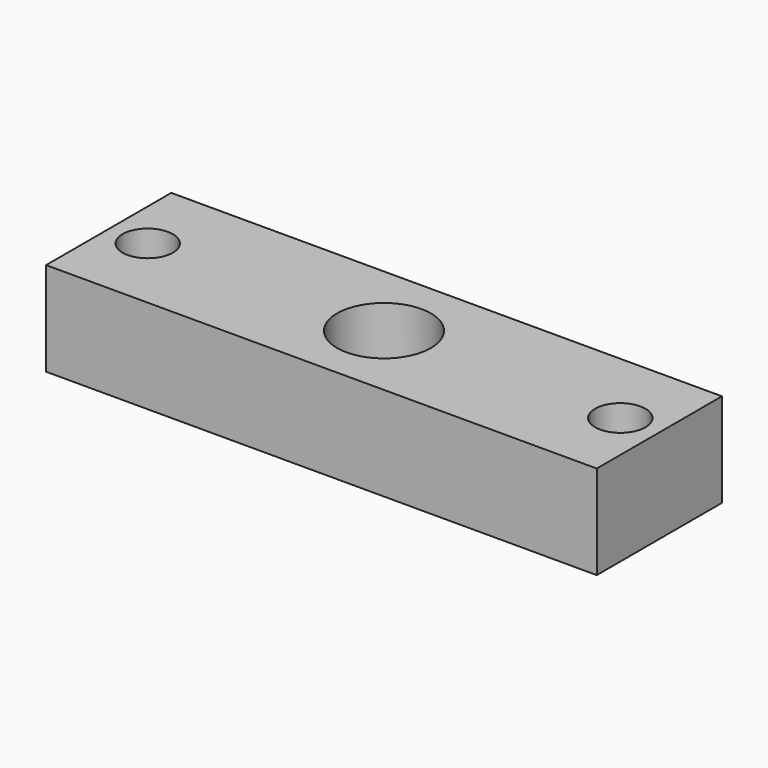
from build123d import *

# Parameters (mm, degrees)
F0_W     = 55.88
F0_H     = 15.875
F1_DEPTH = 9.525
F2_D     = 5.1054
F3_D     = 9.525


with BuildPart() as f1:
    # F0 (on Top) → F1 (new body)
    with BuildSketch(Plane.XY):
        Rectangle(F0_W, F0_H)
    extrude(amount=F1_DEPTH)

    # F2 (through all)
    with Locations(Plane(origin=(0, 0, 0), x_dir=(1, 0, 0), z_dir=(0, 0, -1))):
        with Locations((-23.9776, 0), (23.9776, 0)):
            Hole(F2_D / 2)

    # F3 (through all)
    with Locations(Plane(origin=(0, 0, 0), x_dir=(1, 0, 0), z_dir=(0, 0, -1))):
        with Locations((0, 0)):
            Hole(F3_D / 2)


solid = f1.part
